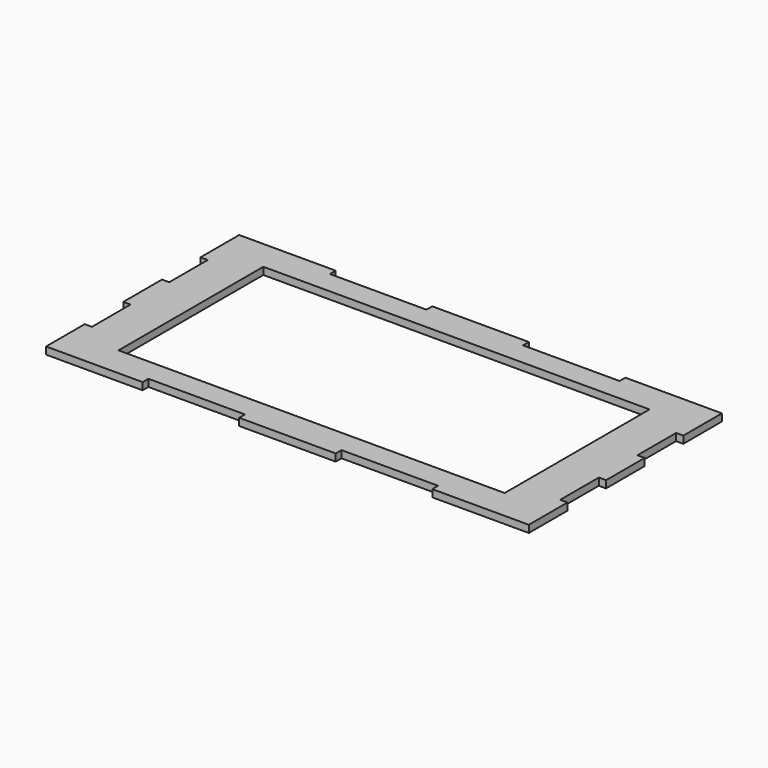
from build123d import *

# Parameters (mm, degrees)
F1_DEPTH = 3


with BuildPart() as f1:
    # F0 (on Top) → F1 (new body)
    with BuildSketch(Plane.XY):
        Polygon((0, -20), (0, 0), (-40, 0), (-40, -3), (-80, -3), (-80, 0), (-120, 0), (-120, -3), (-160, -3), (-160, 0), (-200, 0), (-200, -20), (-197, -20), (-197, -40), (-200, -40), (-200, -60), (-197, -60), (-197, -80), (-200, -80), (-200, -100), (-160, -100), (-160, -97), (-120, -97), (-120, -100), (-80, -100), (-80, -97), (-40, -97), (-40, -100), (0, -100), (0, -80), (-3, -80), (-3, -60), (0, -60), (0, -40), (-3, -40), (-3, -20), align=None)
        Polygon((-180, -12.5), (-100, -12.5), (-20, -12.5), (-20, -87.5), (-180, -87.5), align=None, mode=Mode.SUBTRACT)
    extrude(amount=F1_DEPTH)


solid = f1.part
